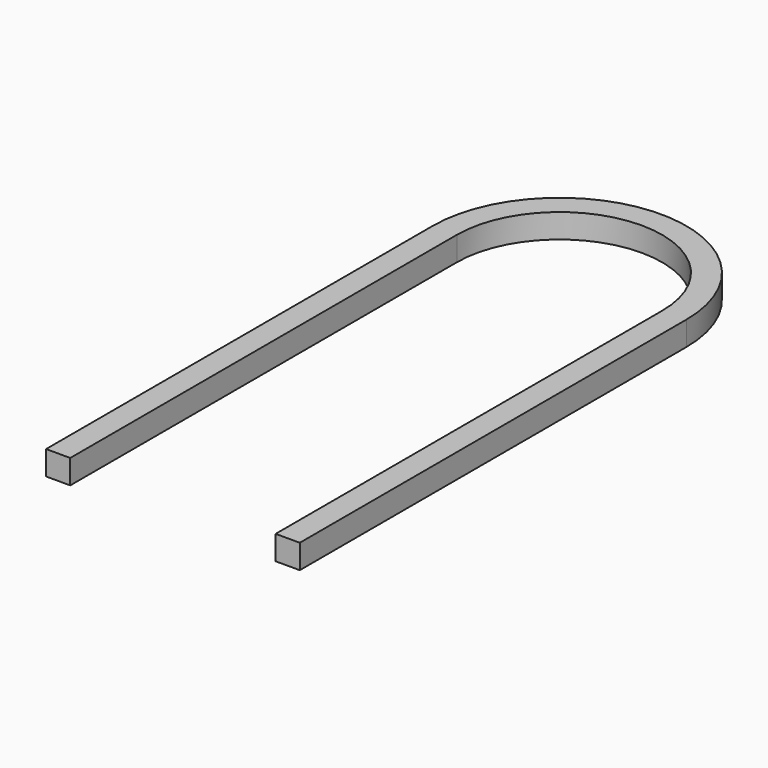
from build123d import *

# Parameters (mm, degrees)
F1_DEPTH = 1


with BuildPart() as f1:
    # F0 (on Top) → F1 (new body, symmetric)
    with BuildSketch(Plane.XY):
        with BuildLine():
            Line((-10.5, 0), (-8.5, 0))
            Line((-8.5, 0), (-8.5, 40))
            ThreePointArc((-8.5, 40), (0, 48.5), (8.5, 40))
            Line((8.5, 40), (8.5, 0))
            Line((8.5, 0), (10.5, 0))
            Line((10.5, 0), (10.5, 40))
            ThreePointArc((10.5, 40), (0, 50.5), (-10.5, 40))
            Line((-10.5, 40), (-10.5, 0))
        make_face()
    extrude(amount=F1_DEPTH, both=True)


solid = f1.part
